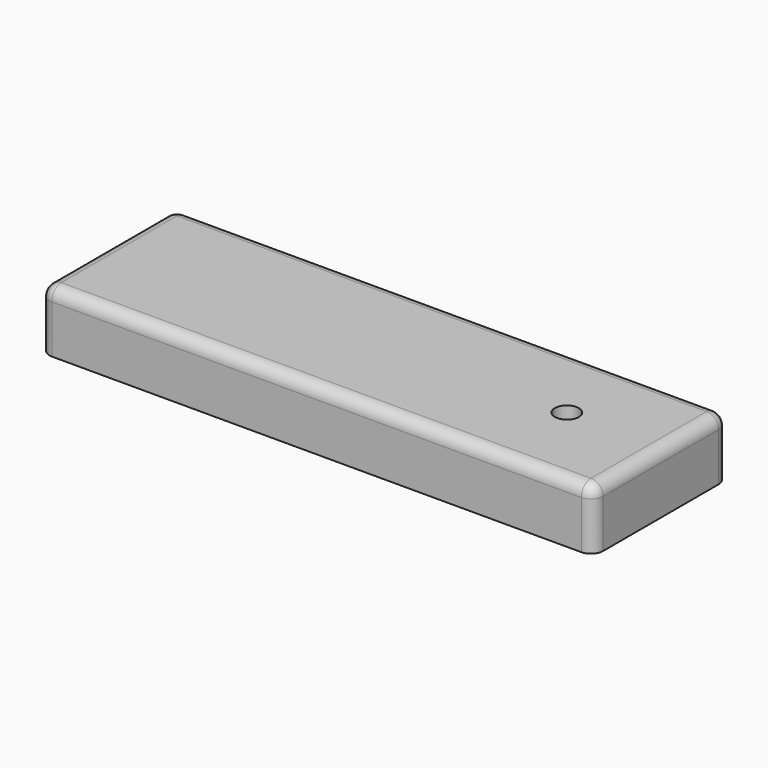
from build123d import *

# Parameters (mm, degrees)
F0_W      = 460
F0_H      = 140
F1_DEPTH  = 50
F2_R      = 10
F3_DEPTH  = 25
F3_FACE_R = 10
F4_DEPTH  = 25
F5_R      = 10
F6_R      = 10


with BuildPart() as f1:
    # F0 (on Top) → F1 (new body)
    with BuildSketch(Plane.XY):
        with Locations((-3.7046, -2.36354)):
            Rectangle(F0_W, F0_H)
    extrude(amount=F1_DEPTH)

    # F2 (on face) → F3 (cut)
    with BuildSketch(Plane(origin=(0, 0, 0), x_dir=(1, 0, 0), z_dir=(0, 0, -1))):
        with Locations((146.342196, 0)):
            Circle(F2_R)
    extrude(amount=-F3_DEPTH, mode=Mode.SUBTRACT)

    # F3_face (on face) → F4 (cut)
    with BuildSketch(Plane(origin=(146.342196, 0, 25), x_dir=(1, 0, 0), z_dir=(0, 0, -1))):
        Circle(F3_FACE_R)
    extrude(amount=-F4_DEPTH, mode=Mode.SUBTRACT)

    # F5
    f5_edges = [f1.edges().sort_by_distance(p)[0] for p in [
        (-233.7046, -72.36354, 25),
        (-3.7046, -72.36354, 50),
        (-233.7046, -2.36354, 50),
    ]]
    fillet(f5_edges, radius=F5_R)

    # F6
    f6_edges = [f1.edges().sort_by_distance(p)[0] for p in [
        (226.2954, -72.36354, 20),
        (226.2954, 67.63646, 25),
        (1.2954, 67.63646, 50),
    ]]
    fillet(f6_edges, radius=F6_R)


solid = f1.part
